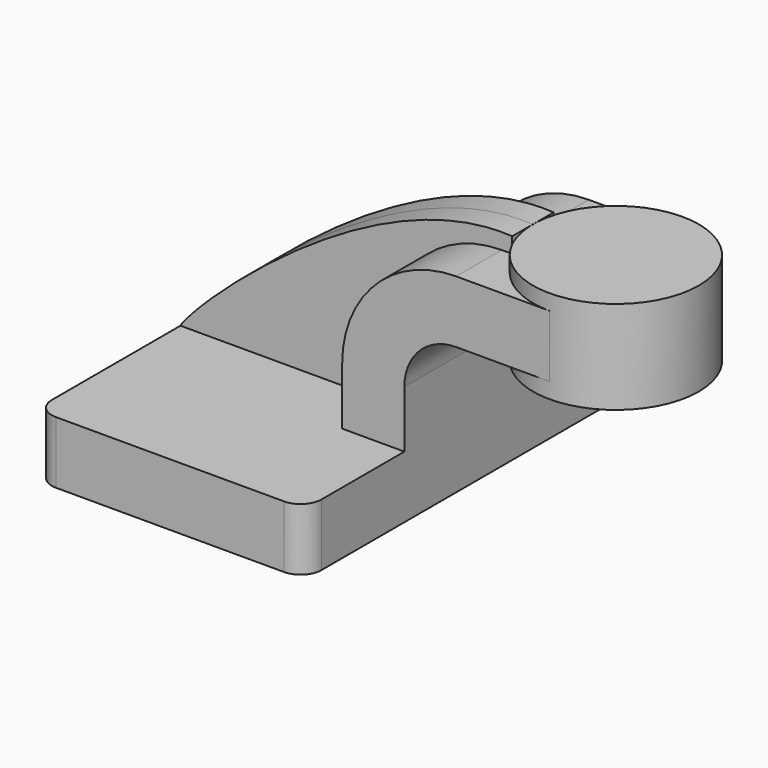
from build123d import *

# Parameters (mm, degrees)
F1_DEPTH = 63.5
F0_W     = 25.4
F0_H     = 19.05
F2_DEPTH = 25.4
F3_DEPTH = 7.9375
F5_R     = 6.35


with BuildPart() as f1:
    # F0 (on Front) → F1 (new body, symmetric)
    with BuildSketch(Plane.XZ):
        Polygon((-41.275, -9.525), (41.275, -9.525), (41.275, 9.525), (22.225, 9.525), (17.4752, 9.525), (-41.275, 9.525), align=None)
    extrude(amount=F1_DEPTH, both=True)

    # F0 (on Front) → F2 (join, symmetric)
    with BuildSketch(Plane.XZ):
        with BuildLine():
            Line((22.225, 9.525), (41.275, 9.525))
            Line((41.275, 9.525), (41.275, 27.0002))
            ThreePointArc((41.275, 27.0002), (45.9246798487, 38.2255201513), (57.15, 42.8752))
            Line((57.15, 42.8752), (60.325, 42.8752))
            Line((60.325, 42.8752), (60.325, 61.9252))
            Line((60.325, 61.9252), (57.15, 61.9252))
            ThreePointArc((57.15, 61.9252), (32.4542956671, 51.6959043329), (22.225, 27.0002))
            Line((22.225, 27.0002), (22.225, 9.525))
        make_face()
        with Locations((73.025, 52.4002)):
            Rectangle(F0_W, F0_H)
    extrude(amount=F2_DEPTH, both=True)

    # F0 (on Front) → F3 (join, symmetric)
    with BuildSketch(Plane.XZ):
        with BuildLine():
            add(Edge.make_bspline(
                [(-41.275, 9.525), (-37.6614816487, 16.3277760148), (16.9668775052, 69.3094581366), (60.325, 66.675)],
                knots=[0, 0, 0, 0, 116.5705044169, 116.5705044169, 116.5705044169, 116.5705044169], degree=3))
            Line((-41.275, 9.525), (17.4752, 9.525))
            Line((17.4752, 9.525), (22.225, 9.525))
            Line((22.225, 9.525), (22.225, 27.0002))
            ThreePointArc((22.225, 27.0002), (32.4542956671, 51.6959043329), (57.15, 61.9252))
            Line((57.15, 61.9252), (60.325, 61.9252))
            Line((60.325, 61.9252), (60.325, 66.675))
        make_face()
    extrude(amount=F3_DEPTH, both=True)

    # F5
    f5_edges = [f1.edges().sort_by_distance(p)[0] for p in [
        (-41.275, -63.5, 0),
        (41.275, -63.5, 0),
        (-41.275, 63.5, 0),
        (41.275, 63.5, 0),
    ]]
    fillet(f5_edges, radius=F5_R)


with BuildPart() as f4:
    # F0 (on Front) → F4 (revolve)
    with BuildSketch(Plane.XZ):
        Polygon((88.9, 66.675), (85.725, 66.675), (85.725, 61.9252), (85.725, 42.8752), (85.725, 38.1), (111.125, 38.1), (111.125, 66.675), align=None)
    revolve(axis=Axis((85.725, 0, 52.3875), (0, 0, 1)))


solid = Compound([f1.part, f4.part])
